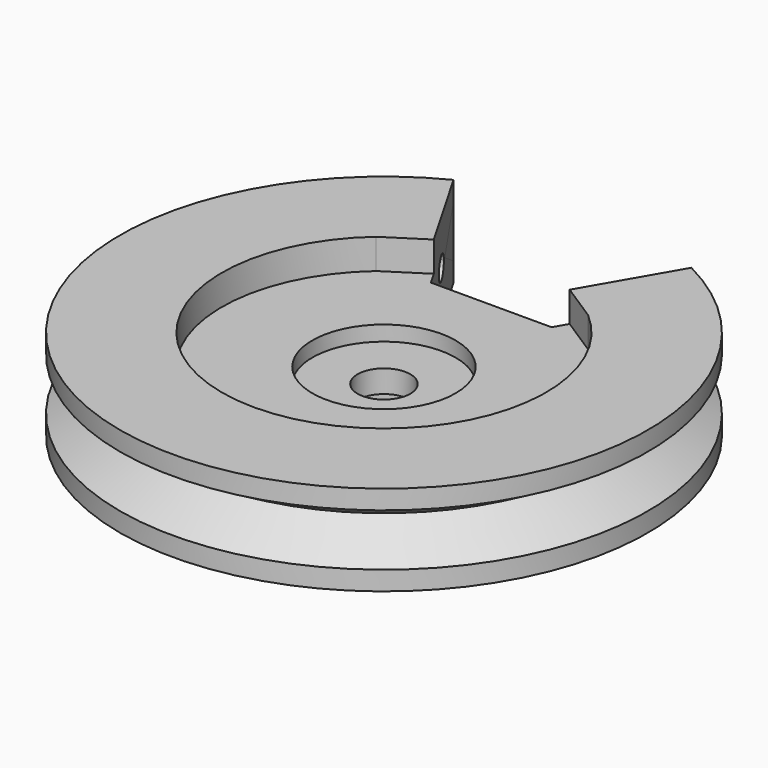
from build123d import *

# Parameters (mm, degrees)
F0_R      = 17.5
F0_R_2    = 10.75
F1_DEPTH  = 6
F2_R      = 10.75
F2_R_2    = 1.75
F3_DEPTH  = 4
F8_DEPTH  = 6
F9_DEPTH  = 6
F11_DEPTH = 50
F12_R     = 4.75
F13_DEPTH = 1
F14_R     = 3
F15_DEPTH = 1.5


with BuildPart() as f1:
    # F0 (on Top) → F1 (new body)
    with BuildSketch(Plane.XY):
        Circle(F0_R)
        Circle(F0_R_2, mode=Mode.SUBTRACT)
    extrude(amount=F1_DEPTH)

    # F2 (on Top) → F3 (join)
    with BuildSketch(Plane.XY):
        Circle(F2_R)
        Circle(F2_R_2, mode=Mode.SUBTRACT)
    extrude(amount=F3_DEPTH)

    # F5: sweep along a path in F5_path
    with BuildLine(Plane(origin=(17.5, 0, 6), x_dir=(0, -1, 0), z_dir=(0, 0, -1))) as f5_path:
        CenterArc((0, 17.5), 17.5, 0, 360)
    # F4 (on Front) → F5 (sweep, cut)
    with BuildSketch(Plane.XZ):
        Polygon((17.5310889132, 4.75), (14.5, 3), (17.5310889132, 1.25), align=None)
    sweep(path=f5_path.line, mode=Mode.SUBTRACT)

    # F6 (on Top) → F8 (cut)
    with BuildSketch(Plane.XY):
        with BuildLine():
            Line((-4, 8.8917096219), (4, 8.8917096219))
            ThreePointArc((4, 8.8917096219), (0, 9.75), (-4, 8.8917096219))
        make_face()
        with BuildLine():
            ThreePointArc((-4, 8.8917096219), (0, 9.75), (4, 8.8917096219))
            Line((4, 8.8917096219), (9.5, 18.4179890635))
            Line((9.5, 18.4179890635), (-9.5, 18.4179890635))
            Line((-9.5, 18.4179890635), (-4, 8.8917096219))
        make_face()
    extrude(amount=F8_DEPTH, mode=Mode.SUBTRACT)

    # F7 (on Top) → F9 (join)
    with BuildSketch(Plane.XY):
        with BuildLine():
            Line((-5.942998404, 12.2570815767), (-7.8859968081, 15.6224535315))
            ThreePointArc((-7.8859968081, 15.6224535315), (-9.1966080897, 14.8886668189), (-10.4394679259, 14.0451952433))
            Line((-10.4394679259, 14.0451952433), (-8.5410746154, 10.7570815767))
            Line((-8.5410746154, 10.7570815767), (-5.942998404, 12.2570815767))
        make_face()
        with BuildLine():
            Line((5.942998404, 12.2570815767), (4.5023149906, 9.761744707))
            ThreePointArc((4.5023149906, 9.761744707), (5.8218855082, 9.037043163), (7.027274843, 8.1351034585))
            Line((7.027274843, 8.1351034585), (8.5410746154, 10.7570815767))
            Line((8.5410746154, 10.7570815767), (5.942998404, 12.2570815767))
        make_face()
        with BuildLine():
            ThreePointArc((7.027274843, 8.1351034585), (5.8218855082, 9.037043163), (4.5023149906, 9.761744707))
            Line((4.5023149906, 9.761744707), (7.027274843, 8.1351034585))
        make_face()
        with BuildLine():
            Line((-4.5023149906, 9.761744707), (-5.942998404, 12.2570815767))
            Line((-5.942998404, 12.2570815767), (-8.5410746154, 10.7570815767))
            Line((-8.5410746154, 10.7570815767), (-7.027274843, 8.1351034585))
            ThreePointArc((-7.027274843, 8.1351034585), (-5.8218855082, 9.037043163), (-4.5023149906, 9.761744707))
        make_face()
        with BuildLine():
            Line((-7.027274843, 8.1351034585), (-4.5023149906, 9.761744707))
            ThreePointArc((-4.5023149906, 9.761744707), (-5.8218855082, 9.037043163), (-7.027274843, 8.1351034585))
        make_face()
        with BuildLine():
            Line((7.8859968081, 15.6224535315), (5.942998404, 12.2570815767))
            Line((5.942998404, 12.2570815767), (8.5410746154, 10.7570815767))
            Line((8.5410746154, 10.7570815767), (10.4394679259, 14.0451952433))
            ThreePointArc((10.4394679259, 14.0451952433), (9.1966080897, 14.8886668189), (7.8859968081, 15.6224535315))
        make_face()
    extrude(amount=F9_DEPTH)

    # F10 (on Right) → F11 (cut, symmetric)
    with BuildSketch(Plane.YZ):
        with BuildLine():
            ThreePointArc((12, 2.25), (12.5303300859, 2.4696699141), (12.75, 3))
            ThreePointArc((12.75, 3), (11.4696699141, 3.5303300859), (12, 2.25))
        make_face()
    extrude(amount=F11_DEPTH, both=True, mode=Mode.SUBTRACT)

    # F12 (on face) → F13 (cut)
    with BuildSketch(Plane.XY.offset(4)):
        Circle(F12_R)
    extrude(amount=-F13_DEPTH, mode=Mode.SUBTRACT)

    # F14 (on Top) → F15 (cut)
    with BuildSketch(Plane.XY):
        Circle(F14_R)
    extrude(amount=F15_DEPTH, mode=Mode.SUBTRACT)


solid = f1.part
